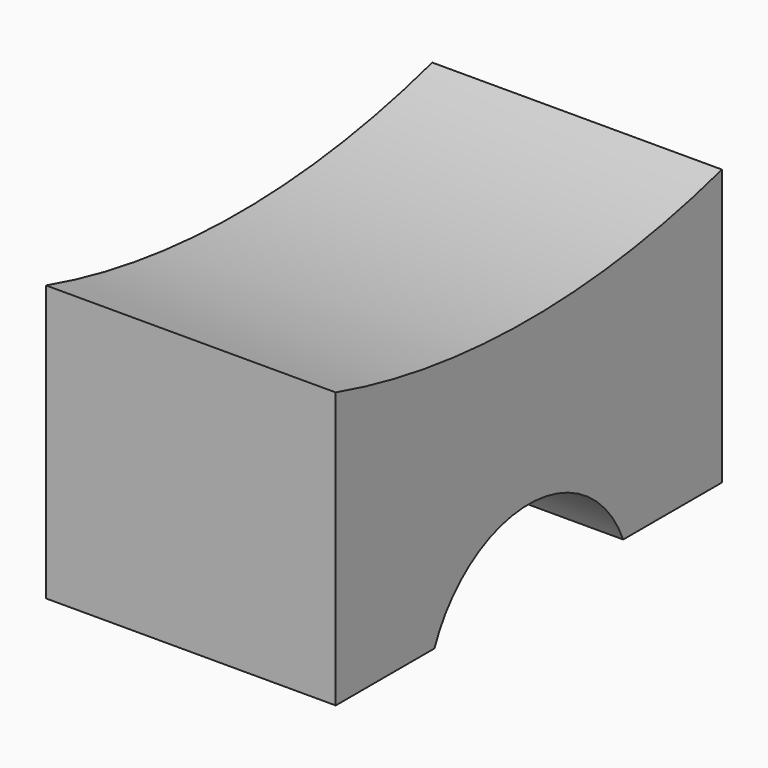
from build123d import *

# Parameters (mm, degrees)
F1_DEPTH      = 19.05
F1_DEPTH_BACK = 19.05


with BuildPart() as f1:
    # F0 (on Right) → F1 (new body, two sides)
    with BuildSketch(Plane.YZ) as f1_sk:
        with BuildLine():
            ThreePointArc((-15.514806, -19.05), (0, -8.636), (15.514806, -19.05))
            Line((15.514806, -19.05), (31.75, -19.05))
            Line((31.75, -19.05), (31.75, 17.198235))
            ThreePointArc((31.75, 17.198235), (0, 12.7), (-31.75, 17.198235))
            Line((-31.75, 17.198235), (-31.75, -19.05))
            Line((-31.75, -19.05), (-15.514806, -19.05))
        make_face()
    extrude(amount=F1_DEPTH)
    extrude(f1_sk.sketch, amount=-F1_DEPTH_BACK)


solid = f1.part
